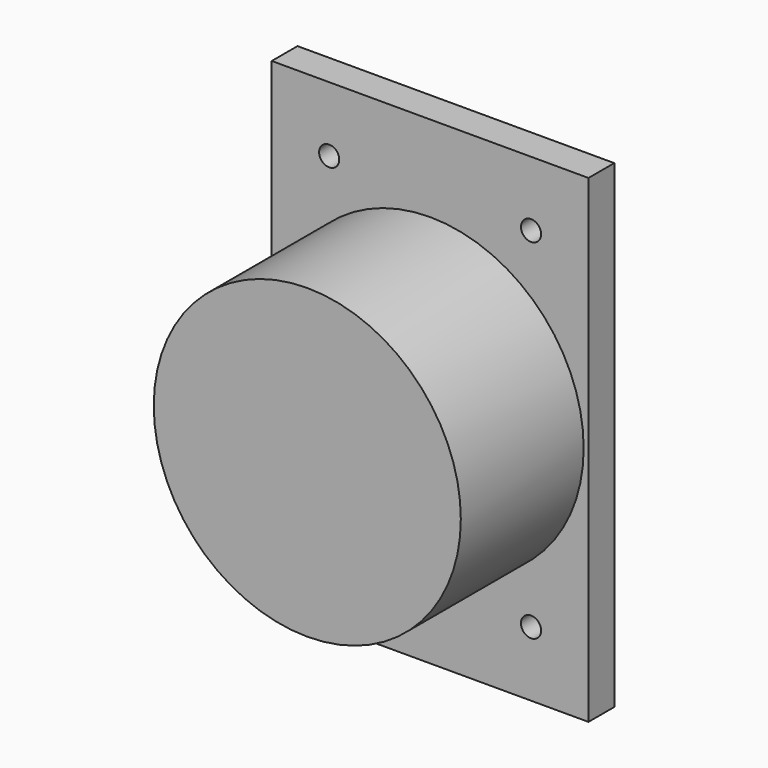
from build123d import *

# Parameters (mm, degrees)
F0_W     = 74.93
F0_H     = 113.284
F1_DEPTH = 7.62
F2_R     = 2.38125
F3_DEPTH = 7.621
F4_R     = 36.322
F5_DEPTH = 36.322


with BuildPart() as f1:
    # F0 (on Front) → F1 (new body)
    with BuildSketch(Plane.XZ):
        Rectangle(F0_W, F0_H)
    extrude(amount=F1_DEPTH)

    # F2 (on face) → F3 (cut, through all)
    with BuildSketch(Plane.XZ.offset(7.62)):
        with Locations((23.876, 41.275)):
            Circle(F2_R)
        with Locations((-23.876, 41.275)):
            Circle(F2_R)
        with Locations((-23.876, -41.275)):
            Circle(F2_R)
        with Locations((23.876, -41.275)):
            Circle(F2_R)
    extrude(amount=-F3_DEPTH, mode=Mode.SUBTRACT)

    # F4 (on face) → F5 (join)
    with BuildSketch(Plane.XZ.offset(7.62)):
        Circle(F4_R)
    extrude(amount=F5_DEPTH)


solid = f1.part
